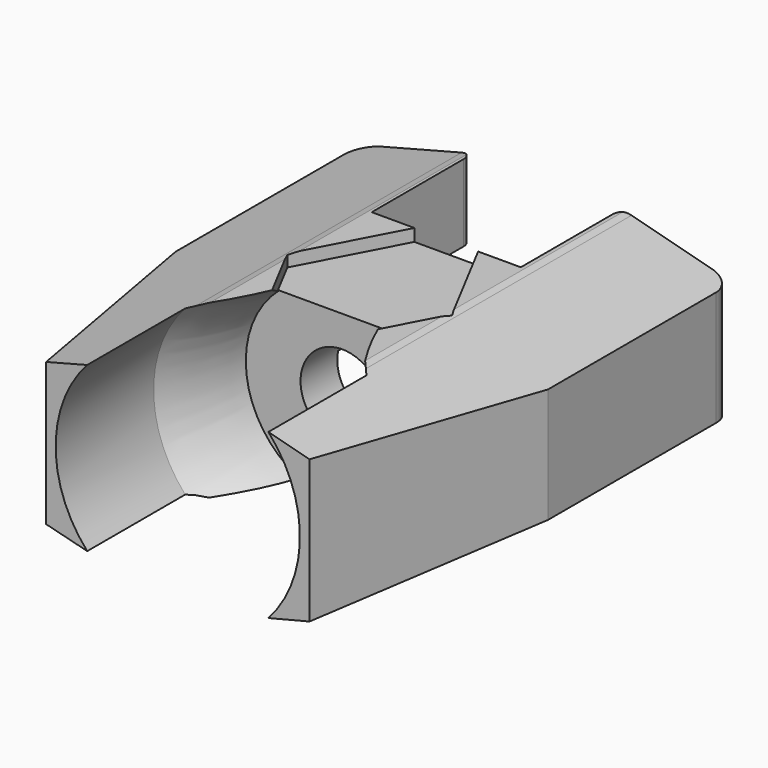
from build123d import *

# Parameters (mm, degrees)
PAD_DEPTH       = 12
POCKET_DEPTH    = 62
SKETCH019_W     = 31
SKETCH019_H     = 21.780884
POCKET002_DEPTH = 17
SKETCH020_R     = 2
POCKET003_DEPTH = 4
CYLINDER_R      = 4
CYLINDER_DEPTH  = 28
POCKET032_DEPTH = 5
SKETCH084_W     = 7.885986
SKETCH084_H     = 7.189331
PAD020_DEPTH    = 0.5


with BuildPart() as part:
    # Sketch010 → Pad (new body, symmetric)
    with BuildSketch(Plane.XY):
        with BuildLine():
            Line((12.639868, 59.984547), (-12.639868, 59.984547))
            Line((-12.639868, 59.984547), (-17.867889, 82.058411))
            Line((-17.867889, 82.058411), (-17.867889, 102.222236))
            ThreePointArc((-15.867889, 104.222236), (-17.282103, 103.63645), (-17.867889, 102.222236))
            Line((-15.867889, 104.222236), (-8.154342, 104.222236))
            ThreePointArc((-7.154342, 103.222236), (-7.447235, 103.929343), (-8.154342, 104.222236))
            Line((-7.154342, 103.222236), (-7.154342, 92.189331))
            Line((-7.154342, 92.189331), (7.154342, 92.189331))
            Line((7.154342, 92.189331), (7.154342, 103.222236))
            ThreePointArc((8.154342, 104.222236), (7.447235, 103.929343), (7.154342, 103.222236))
            Line((8.154342, 104.222236), (15.867889, 104.222236))
            ThreePointArc((17.867889, 102.222236), (17.282103, 103.63645), (15.867889, 104.222236))
            Line((17.867889, 102.222236), (17.867889, 82.058411))
            Line((17.867889, 82.058411), (12.639868, 59.984547))
        make_face()
    extrude(amount=PAD_DEPTH, both=True)

    # Sketch011 → Pocket (cut)
    with BuildSketch(Plane.XZ.offset(-54)):
        Polygon((0, 13.813917), (-22.117895, 13.813917), (-22.117895, -0.189388), (-22.117895, -17.743416), (0, -17.743416), (22.658901, -17.743416), (22.658901, -0.111897), (22.658901, 13.813917), align=None)
        Polygon((-18.596464, 0), (-18.596464, 5.287208), (-8.154342, 8), (-7.443202, 8.179805), (0, 8.179805), (7.519913, 8.179805), (8.154342, 8), (18.531284, 5.287208), (18.531284, -0.112287), (18.531284, -5.399495), (8.154342, -8), (7.554242, -8.253323), (0.11104, -8.253323), (-7.443202, -8.253323), (-8.154342, -8), (-18.596464, -5.371119), align=None, mode=Mode.SUBTRACT)
    extrude(amount=-POCKET_DEPTH, mode=Mode.SUBTRACT)

    # Sketch019 → Pocket002 (cut)
    with BuildSketch(Plane.XY.offset(0.8)):
        with Locations((0.01352, 95.005211)):
            Rectangle(SKETCH019_W, SKETCH019_H)
    extrude(amount=-POCKET002_DEPTH, mode=Mode.SUBTRACT)

    # Sketch020 → Pocket003 (cut)
    with BuildSketch(Plane.XY.offset(0.8)):
        with Locations((-11.1, 94.9)):
            Circle(SKETCH020_R)
        with Locations((11.3, 94.9)):
            Circle(SKETCH020_R)
        with Locations((0.013518, 88.3)):
            Circle(SKETCH020_R)
    extrude(amount=POCKET003_DEPTH, mode=Mode.SUBTRACT)

    # Cylinder → Cylinder (cut)
    with BuildSketch(Plane.XZ.offset(-85)):
        Circle(CYLINDER_R)
    extrude(amount=CYLINDER_DEPTH, mode=Mode.SUBTRACT)

    # Sketch067 → Pocket032 (cut)
    with BuildSketch(Plane.XY.offset(7)):
        Polygon((-7.9, 83), (0, 68), (7.9, 83), (0, 98), align=None)
    extrude(amount=POCKET032_DEPTH, mode=Mode.SUBTRACT)

    # Sketch084 → Pad020 (join)
    with BuildSketch(Plane.XY.offset(0.8)):
        with Locations((-0.023809, 88.594665)):
            Rectangle(SKETCH084_W, SKETCH084_H)
    extrude(amount=PAD020_DEPTH)

    # Sketch085 → Groove (revolve, cut)
    with BuildSketch(Plane.XY):
        with BuildLine():
            ThreePointArc((9.252061, 79.708405), (10.164814, 75.624968), (11.720768, 71.740822))
            Line((11.720768, 71.740822), (11.720768, 58.4589))
            Line((11.720768, 58.4589), (0, 58.4589))
            Line((0, 58.4589), (0, 79.708405))
            Line((9.252061, 79.708405), (0, 79.708405))
        make_face()
    revolve(axis=Axis((0, 0, 0), (0, 1, 0)), mode=Mode.SUBTRACT)


solid = part.part
